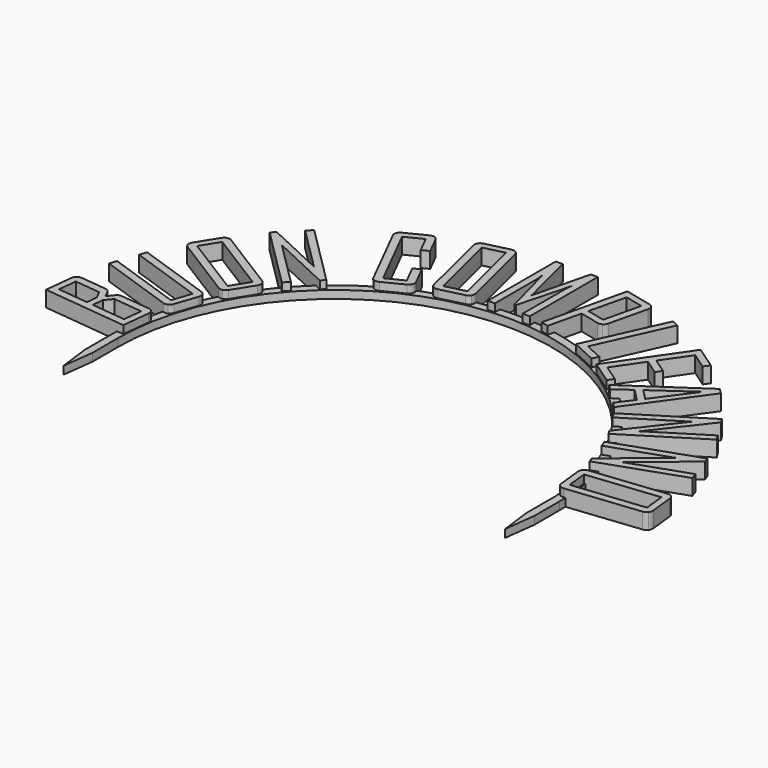
from build123d import *

# Parameters (mm, degrees)
PAD_DEPTH    = 1
PAD001_DEPTH = 2
PAD002_DEPTH = 2


with BuildPart() as part:
    # Sketch001 (on DatumPlane) → Pad (new body)
    with BuildSketch(Plane.XY):
        with BuildLine():
            ThreePointArc((27.5, 0), (0, 27.5), (-27.5, 0))
            Line((-27.5, 0), (-27.5, -4))
            Line((-27.5, -4), (-28, -8))
            Line((-28.5, -4), (-28, -8))
            Line((-28.5, 0), (-28.5, -4))
            ThreePointArc((3.69, 28.260111), (-18.802726, 21.417458), (-28.5, 0))
            ThreePointArc((4.679178, 28.113258), (4.185233, 28.191024), (3.69, 28.260111))
            ThreePointArc((28.5, 0), (21.74404, 18.42408), (4.679178, 28.113258))
            Line((28.5, 0), (28.5, -4))
            Line((28.5, -4), (28, -8))
            Line((27.5, -4), (28, -8))
            Line((27.5, 0), (27.5, -4))
        make_face()
    extrude(amount=PAD_DEPTH)

    # Sketch → Pad001 (join)
    with BuildSketch(Plane(origin=(-105.3, 177.4, 0), x_dir=(1, 0, 0), z_dir=(0, 0, 1))):
        with BuildLine():
            add(Edge.make_bspline(
                [(77.387748, -172.01955), (77.723387, -172.056064), (77.912628, -172.291513)],
                knots=[0, 0, 0, 1, 1, 1], degree=2))
            add(Edge.make_bspline(
                [(77.912628, -172.291513), (78.101868, -172.526953), (78.065352, -172.86259)],
                knots=[0, 0, 0, 1, 1, 1], degree=2))
            add(Edge.make_bspline(
                [(78.065352, -172.86259), (77.680815, -176.397073)],
                knots=[0, 0, 3.555339, 3.555339], degree=1))
            add(Edge.make_bspline(
                [(77.680815, -176.397073), (66.960931, -175.230789)],
                knots=[0, 0, 10.783141, 10.783141], degree=1))
            add(Edge.make_bspline(
                [(66.960931, -175.230789), (67.342489, -171.723711)],
                knots=[0, 0, 3.527773, 3.527773], degree=1))
            add(Edge.make_bspline(
                [(67.342489, -171.723711), (67.379006, -171.388074), (67.614448, -171.198826)],
                knots=[0, 0, 0, 1, 1, 1], degree=2))
            add(Edge.make_bspline(
                [(67.614448, -171.198826), (67.849894, -171.009587), (68.185523, -171.046062)],
                knots=[0, 0, 0, 1, 1, 1], degree=2))
            add(Edge.make_bspline(
                [(68.185523, -171.046062), (71.370664, -171.392593)],
                knots=[0, 0, 3.203936, 3.203936], degree=1))
            add(Edge.make_bspline(
                [(71.370664, -171.392593), (71.795351, -171.438803), (72.041308, -171.85369)],
                knots=[0, 0, 0, 1, 1, 1], degree=2))
            add(Edge.make_bspline(
                [(72.041308, -171.85369), (72.226361, -172.255017), (72.411416, -172.656343)],
                knots=[0, 0, 0, 1, 1, 1], degree=2))
            add(Edge.make_bspline(
                [(72.411416, -172.656343), (73.019935, -171.90471)],
                knots=[0, 0, 0.967083, 0.967083], degree=1))
            add(Edge.make_bspline(
                [(73.019935, -171.90471), (73.27788, -171.572368), (73.743665, -171.623048)],
                knots=[0, 0, 0, 1, 1, 1], degree=2))
            add(Edge.make_bspline(
                [(73.743665, -171.623048), (77.387748, -172.01955)],
                knots=[0, 0, 3.665591, 3.665591], degree=1))
        make_face()
        with BuildLine():
            add(Edge.make_bspline(
                [(71.389636, -172.365017), (68.163397, -172.014017)],
                knots=[0, 0, 3.245277, 3.245277], degree=1))
            add(Edge.make_bspline(
                [(68.163397, -172.014017), (67.907037, -174.370332)],
                knots=[0, 0, 2.37022, 2.37022], degree=1))
            add(Edge.make_bspline(
                [(67.907037, -174.370332), (71.777155, -174.791387)],
                knots=[0, 0, 3.892955, 3.892955], degree=1))
            add(Edge.make_bspline(
                [(71.777155, -174.791387), (71.929926, -173.387183)],
                knots=[0, 0, 1.41249, 1.41249], degree=1))
            add(Edge.make_bspline(
                [(71.929926, -173.387183), (71.389636, -172.365017)],
                knots=[0, 0, 1.156173, 1.156173], degree=1))
        make_face(mode=Mode.SUBTRACT)
        with BuildLine():
            add(Edge.make_bspline(
                [(77.201218, -172.969569), (73.495495, -172.566401)],
                knots=[0, 0, 3.72759, 3.72759], degree=1))
            add(Edge.make_bspline(
                [(73.495495, -172.566401), (72.760239, -173.463657)],
                knots=[0, 0, 1.16003, 1.16003], degree=1))
            add(Edge.make_bspline(
                [(72.760239, -173.463657), (72.605978, -174.881564)],
                knots=[0, 0, 1.426273, 1.426273], degree=1))
            add(Edge.make_bspline(
                [(72.605978, -174.881564), (76.941879, -175.353289)],
                knots=[0, 0, 4.361486, 4.361486], degree=1))
            add(Edge.make_bspline(
                [(76.941879, -175.353289), (77.201218, -172.969569)],
                knots=[0, 0, 2.397786, 2.397786], degree=1))
        make_face(mode=Mode.SUBTRACT)
        with BuildLine():
            add(Edge.make_bspline(
                [(79.237839, -165.974517), (79.557148, -166.08418), (79.687541, -166.3621)],
                knots=[0, 0, 0, 1, 1, 1], degree=2))
            add(Edge.make_bspline(
                [(79.687541, -166.3621), (79.820167, -166.633493), (79.7105, -166.952798)],
                knots=[0, 0, 0, 1, 1, 1], degree=2))
            add(Edge.make_bspline(
                [(79.7105, -166.952798), (78.757047, -169.728848)],
                knots=[0, 0, 2.935221, 2.935221], degree=1))
            add(Edge.make_bspline(
                [(78.757047, -169.728848), (78.647379, -170.048164), (78.375982, -170.18079)],
                knots=[0, 0, 0, 1, 1, 1], degree=2))
            add(Edge.make_bspline(
                [(78.375982, -170.18079), (78.104591, -170.313436), (77.785277, -170.203754)],
                knots=[0, 0, 0, 1, 1, 1], degree=2))
            add(Edge.make_bspline(
                [(77.785277, -170.203754), (68.310222, -166.949471)],
                knots=[0, 0, 10.018335, 10.018335], degree=1))
            add(Edge.make_bspline(
                [(68.310222, -166.949471), (68.621327, -166.043676)],
                knots=[0, 0, 0.957732, 0.957732], degree=1))
            add(Edge.make_bspline(
                [(68.621327, -166.043676), (78.018181, -169.271096)],
                knots=[0, 0, 9.935649, 9.935649], degree=1))
            add(Edge.make_bspline(
                [(78.018181, -169.271096), (78.848537, -166.853459)],
                knots=[0, 0, 2.556259, 2.556259], degree=1))
            add(Edge.make_bspline(
                [(78.848537, -166.853459), (69.451681, -163.626039)],
                knots=[0, 0, 9.93565, 9.93565], degree=1))
            add(Edge.make_bspline(
                [(69.451681, -163.626039), (69.762785, -162.720244)],
                knots=[0, 0, 0.957732, 0.957732], degree=1))
            add(Edge.make_bspline(
                [(69.762785, -162.720244), (79.237839, -165.974517)],
                knots=[0, 0, 10.01833, 10.01833], degree=1))
        make_face()
        with BuildLine():
            add(Edge.make_bspline(
                [(82.470727, -160.384472), (82.75705, -160.563383), (82.821355, -160.863547)],
                knots=[0, 0, 0, 1, 1, 1], degree=2))
            add(Edge.make_bspline(
                [(82.821355, -160.863547), (82.889313, -161.157875), (82.710408, -161.444196)],
                knots=[0, 0, 0, 1, 1, 1], degree=2))
            add(Edge.make_bspline(
                [(82.710408, -161.444196), (81.111221, -164.003555)],
                knots=[0, 0, 3.0179, 3.0179], degree=1))
            add(Edge.make_bspline(
                [(81.111221, -164.003555), (80.932317, -164.289876), (80.637992, -164.357838)],
                knots=[0, 0, 0, 1, 1, 1], degree=2))
            add(Edge.make_bspline(
                [(80.637992, -164.357838), (80.343664, -164.425791), (80.057344, -164.24689)],
                knots=[0, 0, 0, 1, 1, 1], degree=2))
            add(Edge.make_bspline(
                [(80.057344, -164.24689), (72.209806, -159.343453)],
                knots=[0, 0, 9.253515, 9.253515], degree=1))
            add(Edge.make_bspline(
                [(72.209806, -159.343453), (71.923482, -159.164542), (71.855525, -158.870214)],
                knots=[0, 0, 0, 1, 1, 1], degree=2))
            add(Edge.make_bspline(
                [(71.855525, -158.870214), (71.787569, -158.575896), (71.966472, -158.289565)],
                knots=[0, 0, 0, 1, 1, 1], degree=2))
            add(Edge.make_bspline(
                [(71.966472, -158.289565), (73.565659, -155.730206)],
                knots=[0, 0, 3.0179, 3.0179], degree=1))
            add(Edge.make_bspline(
                [(73.565659, -155.730206), (73.744563, -155.443885), (74.03889, -155.375932)],
                knots=[0, 0, 0, 1, 1, 1], degree=2))
            add(Edge.make_bspline(
                [(74.03889, -155.375932), (74.336829, -155.301958), (74.623189, -155.481035)],
                knots=[0, 0, 0, 1, 1, 1], degree=2))
            add(Edge.make_bspline(
                [(74.623189, -155.481035), (82.470727, -160.384472)],
                knots=[0, 0, 9.253515, 9.253515], degree=1))
        make_face()
        with BuildLine():
            add(Edge.make_bspline(
                [(81.893103, -161.152876), (74.185805, -156.337068)],
                knots=[0, 0, 9.088149, 9.088149], degree=1))
            add(Edge.make_bspline(
                [(74.185805, -156.337068), (72.787429, -158.575049)],
                knots=[0, 0, 2.638942, 2.638942], degree=1))
            add(Edge.make_bspline(
                [(72.787429, -158.575049), (80.494728, -163.390857)],
                knots=[0, 0, 9.088149, 9.088149], degree=1))
            add(Edge.make_bspline(
                [(80.494728, -163.390857), (81.893103, -161.152876)],
                knots=[0, 0, 2.638942, 2.638942], degree=1))
        make_face(mode=Mode.SUBTRACT)
        with BuildLine():
            add(Edge.make_bspline(
                [(87.343567, -156.285932), (86.876556, -156.754362)],
                knots=[0, 0, 0.661457, 0.661457], degree=1))
            add(Edge.make_bspline(
                [(86.876556, -156.754362), (79.226815, -153.194742)],
                knots=[0, 0, 8.437383, 8.437383], degree=1))
            add(Edge.make_bspline(
                [(79.226815, -153.194742), (84.843119, -158.793992)],
                knots=[0, 0, 7.930603, 7.930603], degree=1))
            add(Edge.make_bspline(
                [(84.843119, -158.793992), (84.205847, -159.433213)],
                knots=[0, 0, 0.902618, 0.902618], degree=1))
            add(Edge.make_bspline(
                [(84.205847, -159.433213), (76.569429, -151.819985)],
                knots=[0, 0, 10.78314, 10.78314], degree=1))
            add(Edge.make_bspline(
                [(76.569429, -151.819985), (77.075356, -151.312513)],
                knots=[0, 0, 0.716582, 0.716582], degree=1))
            add(Edge.make_bspline(
                [(77.075356, -151.312513), (84.588592, -154.813878)],
                knots=[0, 0, 8.289045, 8.289045], degree=1))
            add(Edge.make_bspline(
                [(84.588592, -154.813878), (79.069875, -149.311915)],
                knots=[0, 0, 7.792806, 7.792806], degree=1))
            add(Edge.make_bspline(
                [(79.069875, -149.311915), (79.707149, -148.672704)],
                knots=[0, 0, 0.902613, 0.902613], degree=1))
            add(Edge.make_bspline(
                [(79.707149, -148.672704), (87.343567, -156.285932)],
                knots=[0, 0, 10.78314, 10.78314], degree=1))
        make_face()
    extrude(amount=PAD001_DEPTH)

    # Sketch002 → Pad002 (join)
    with BuildSketch(Plane(origin=(-105.3, 177.4, 0), x_dir=(1, 0, 0), z_dir=(0, 0, 1))):
        with BuildLine():
            add(Edge.make_bspline(
                [(94.514047, -151.029576), (94.665775, -151.331182), (94.5648, -151.621075)],
                knots=[0, 0, 0, 1, 1, 1], degree=2))
            add(Edge.make_bspline(
                [(94.5648, -151.621075), (94.463825, -151.910968), (94.162217, -152.062686)],
                knots=[0, 0, 0, 1, 1, 1], degree=2))
            add(Edge.make_bspline(
                [(94.162217, -152.062686), (91.681637, -153.310512)],
                knots=[0, 0, 2.776751, 2.776751], degree=1))
            add(Edge.make_bspline(
                [(91.681637, -153.310512), (91.38003, -153.46224), (91.093234, -153.367431)],
                knots=[0, 0, 0, 1, 1, 1], degree=2))
            add(Edge.make_bspline(
                [(91.093234, -153.367431), (90.806435, -153.272603), (90.654716, -152.970995)],
                knots=[0, 0, 0, 1, 1, 1], degree=2))
            add(Edge.make_bspline(
                [(90.654716, -152.970995), (86.496353, -144.704455)],
                knots=[0, 0, 9.253522, 9.253522], degree=1))
            add(Edge.make_bspline(
                [(86.496353, -144.704455), (86.344634, -144.402846), (86.439462, -144.116045)],
                knots=[0, 0, 0, 1, 1, 1], degree=2))
            add(Edge.make_bspline(
                [(86.439462, -144.116045), (86.534289, -143.829244), (86.835898, -143.677525)],
                knots=[0, 0, 0, 1, 1, 1], degree=2))
            add(Edge.make_bspline(
                [(86.835898, -143.677525), (89.316476, -142.42971)],
                knots=[0, 0, 2.776744, 2.776744], degree=1))
            add(Edge.make_bspline(
                [(89.316476, -142.42971), (89.618083, -142.277982), (89.911045, -142.369746)],
                knots=[0, 0, 0, 1, 1, 1], degree=2))
            add(Edge.make_bspline(
                [(89.911045, -142.369746), (90.204001, -142.461481), (90.355721, -142.763089)],
                knots=[0, 0, 0, 1, 1, 1], degree=2))
            add(Edge.make_bspline(
                [(90.355721, -142.763089), (91.482781, -145.003606)],
                knots=[0, 0, 2.508024, 2.508024], degree=1))
            add(Edge.make_bspline(
                [(91.482781, -145.003606), (90.621043, -145.437097)],
                knots=[0, 0, 0.964627, 0.964627], degree=1))
            add(Edge.make_bspline(
                [(90.621043, -145.437097), (89.531137, -143.270435)],
                knots=[0, 0, 2.42535, 2.42535], degree=1))
            add(Edge.make_bspline(
                [(89.531137, -143.270435), (87.389102, -144.347961)],
                knots=[0, 0, 2.397785, 2.397785], degree=1))
            add(Edge.make_bspline(
                [(87.389102, -144.347961), (91.473151, -152.466771)],
                knots=[0, 0, 9.088153, 9.088153], degree=1))
            add(Edge.make_bspline(
                [(91.473151, -152.466771), (93.615187, -151.389245)],
                knots=[0, 0, 2.397786, 2.397786], degree=1))
            add(Edge.make_bspline(
                [(93.615187, -151.389245), (92.423103, -149.019465)],
                knots=[0, 0, 2.652719, 2.652719], degree=1))
            add(Edge.make_bspline(
                [(92.423103, -149.019465), (93.284842, -148.585984)],
                knots=[0, 0, 0.964625, 0.964625], degree=1))
            add(Edge.make_bspline(
                [(93.284842, -148.585984), (94.514047, -151.029576)],
                knots=[0, 0, 2.73534, 2.73534], degree=1))
        make_face()
        with BuildLine():
            add(Edge.make_bspline(
                [(100.677936, -149.284913), (100.758712, -149.612731), (100.595728, -149.872875)],
                knots=[0, 0, 0, 1, 1, 1], degree=2))
            add(Edge.make_bspline(
                [(100.595728, -149.872875), (100.439444, -150.131371), (100.111626, -150.212147)],
                knots=[0, 0, 0, 1, 1, 1], degree=2))
            add(Edge.make_bspline(
                [(100.111626, -150.212147), (97.181358, -150.934148)],
                knots=[0, 0, 3.017906, 3.017906], degree=1))
            add(Edge.make_bspline(
                [(97.181358, -150.934148), (96.85355, -151.014922), (96.595054, -150.858639)],
                knots=[0, 0, 0, 1, 1, 1], degree=2))
            add(Edge.make_bspline(
                [(96.595054, -150.858639), (96.336556, -150.702346), (96.255782, -150.374537)],
                knots=[0, 0, 0, 1, 1, 1], degree=2))
            add(Edge.make_bspline(
                [(96.255782, -150.374537), (94.041869, -141.389758)],
                knots=[0, 0, 9.253522, 9.253522], degree=1))
            add(Edge.make_bspline(
                [(94.041869, -141.389758), (93.961093, -141.06194), (94.117386, -140.803442)],
                knots=[0, 0, 0, 1, 1, 1], degree=2))
            add(Edge.make_bspline(
                [(94.117386, -140.803442), (94.273672, -140.544956), (94.601488, -140.46417)],
                knots=[0, 0, 0, 1, 1, 1], degree=2))
            add(Edge.make_bspline(
                [(94.601488, -140.46417), (97.531746, -139.742171)],
                knots=[0, 0, 3.017896, 3.017896], degree=1))
            add(Edge.make_bspline(
                [(97.531746, -139.742171), (97.859564, -139.661395), (98.11806, -139.817678)],
                knots=[0, 0, 0, 1, 1, 1], degree=2))
            add(Edge.make_bspline(
                [(98.11806, -139.817678), (98.38325, -139.972325), (98.464024, -140.300134)],
                knots=[0, 0, 0, 1, 1, 1], degree=2))
            add(Edge.make_bspline(
                [(98.464024, -140.300134), (100.677936, -149.284913)],
                knots=[0, 0, 9.253522, 9.253522], degree=1))
        make_face()
        with BuildLine():
            add(Edge.make_bspline(
                [(99.728238, -149.433819), (97.553891, -140.609603)],
                knots=[0, 0, 9.088155, 9.088155], degree=1))
            add(Edge.make_bspline(
                [(97.553891, -140.609603), (94.991594, -141.24097)],
                knots=[0, 0, 2.638937, 2.638937], degree=1))
            add(Edge.make_bspline(
                [(94.991594, -141.24097), (97.165939, -150.065176)],
                knots=[0, 0, 9.088145, 9.088145], degree=1))
            add(Edge.make_bspline(
                [(97.165939, -150.065176), (99.728238, -149.433819)],
                knots=[0, 0, 2.638937, 2.638937], degree=1))
        make_face(mode=Mode.SUBTRACT)
        with BuildLine():
            add(Edge.make_bspline(
                [(107.91885, -149.775461), (107.016238, -149.77538)],
                knots=[0, 0, 0.902612, 0.902612], degree=1))
            add(Edge.make_bspline(
                [(107.016238, -149.77538), (107.016865, -142.947202)],
                knots=[0, 0, 6.828177, 6.828177], degree=1))
            add(Edge.make_bspline(
                [(107.016865, -142.947202), (107.016851, -142.802516), (107.113408, -142.099715)],
                knots=[0, 0, 0, 1, 1, 1], degree=2))
            add(Edge.make_bspline(
                [(107.113408, -142.099715), (105.348904, -148.762367)],
                knots=[0, 0, 6.892344, 6.892344], degree=1))
            add(Edge.make_bspline(
                [(105.348904, -148.762367), (105.155986, -148.762387)],
                knots=[0, 0, 0.192918, 0.192918], degree=1))
            add(Edge.make_bspline(
                [(105.155986, -148.762387), (103.392715, -142.099419)],
                knots=[0, 0, 6.892334, 6.892334], degree=1))
            add(Edge.make_bspline(
                [(103.392715, -142.099419), (103.489141, -142.809109), (103.489126, -142.946909)],
                knots=[0, 0, 0, 1, 1, 1], degree=2))
            add(Edge.make_bspline(
                [(103.489126, -142.946909), (103.488499, -149.775087)],
                knots=[0, 0, 6.828177, 6.828177], degree=1))
            add(Edge.make_bspline(
                [(103.488499, -149.775087), (102.585886, -149.775005)],
                knots=[0, 0, 0.902612, 0.902612], degree=1))
            add(Edge.make_bspline(
                [(102.585886, -149.775005), (102.586872, -138.991858)],
                knots=[0, 0, 10.783147, 10.783147], degree=1))
            add(Edge.make_bspline(
                [(102.586872, -138.991858), (103.475712, -138.991946)],
                knots=[0, 0, 0.88884, 0.88884], degree=1))
            add(Edge.make_bspline(
                [(103.475712, -138.991946), (105.225174, -146.006314)],
                knots=[0, 0, 7.229244, 7.229244], degree=1))
            add(Edge.make_bspline(
                [(105.225174, -146.006314), (105.238756, -146.061476), (105.252682, -146.316383)],
                knots=[0, 0, 0, 1, 1, 1], degree=2))
            add(Edge.make_bspline(
                [(105.252682, -146.316383), (105.252739, -146.213012), (105.280251, -146.00633)],
                knots=[0, 0, 0, 1, 1, 1], degree=2))
            add(Edge.make_bspline(
                [(105.280251, -146.00633), (107.031006, -138.992274)],
                knots=[0, 0, 7.229255, 7.229255], degree=1))
            add(Edge.make_bspline(
                [(107.031006, -138.992274), (107.919836, -138.992365)],
                knots=[0, 0, 0.888831, 0.888831], degree=1))
            add(Edge.make_bspline(
                [(107.919836, -138.992365), (107.91885, -149.775461)],
                knots=[0, 0, 10.783096, 10.783096], degree=1))
        make_face()
        with BuildLine():
            add(Edge.make_bspline(
                [(114.961055, -146.118429), (114.883167, -146.446941), (114.617753, -146.610604)],
                knots=[0, 0, 0, 1, 1, 1], degree=2))
            add(Edge.make_bspline(
                [(114.617753, -146.610604), (114.360635, -146.769127), (114.032136, -146.691298)],
                knots=[0, 0, 0, 1, 1, 1], degree=2))
            add(Edge.make_bspline(
                [(114.032136, -146.691298), (111.55825, -146.104701)],
                knots=[0, 0, 2.542481, 2.542481], degree=1))
            add(Edge.make_bspline(
                [(111.55825, -146.104701), (110.571063, -150.268072)],
                knots=[0, 0, 4.278808, 4.278808], degree=1))
            add(Edge.make_bspline(
                [(110.571063, -150.268072), (109.639165, -150.047112)],
                knots=[0, 0, 0.957736, 0.957736], degree=1))
            add(Edge.make_bspline(
                [(109.639165, -150.047112), (112.127013, -139.554886)],
                knots=[0, 0, 10.783144, 10.783144], degree=1))
            add(Edge.make_bspline(
                [(112.127013, -139.554886), (115.532788, -140.362445)],
                knots=[0, 0, 3.500208, 3.500208], degree=1))
            add(Edge.make_bspline(
                [(115.532788, -140.362445), (115.8613, -140.440333), (116.019852, -140.697444)],
                knots=[0, 0, 0, 1, 1, 1], degree=2))
            add(Edge.make_bspline(
                [(116.019852, -140.697444), (116.185115, -140.956146), (116.107169, -141.284671)],
                knots=[0, 0, 0, 1, 1, 1], degree=2))
            add(Edge.make_bspline(
                [(116.107169, -141.284671), (114.961055, -146.118429)],
                knots=[0, 0, 4.967775, 4.967775], degree=1))
        make_face()
        with BuildLine():
            add(Edge.make_bspline(
                [(114.048235, -145.817017), (115.156243, -141.14412)],
                knots=[0, 0, 4.802463, 4.802463], degree=1))
            add(Edge.make_bspline(
                [(115.156243, -141.14412), (112.863369, -140.600447)],
                knots=[0, 0, 2.356449, 2.356449], degree=1))
            add(Edge.make_bspline(
                [(112.863369, -140.600447), (111.755362, -145.273344)],
                knots=[0, 0, 4.802463, 4.802463], degree=1))
            add(Edge.make_bspline(
                [(111.755362, -145.273344), (114.048235, -145.817017)],
                knots=[0, 0, 2.356449, 2.356449], degree=1))
        make_face(mode=Mode.SUBTRACT)
        with BuildLine():
            add(Edge.make_bspline(
                [(118.353919, -153.014759), (115.216397, -151.59186)],
                knots=[0, 0, 3.445096, 3.445096], degree=1))
            add(Edge.make_bspline(
                [(115.216397, -151.59186), (119.670058, -141.771426)],
                knots=[0, 0, 10.783136, 10.783136], degree=1))
            add(Edge.make_bspline(
                [(119.670058, -141.771426), (120.542281, -142.166987)],
                knots=[0, 0, 0.957728, 0.957728], degree=1))
            add(Edge.make_bspline(
                [(120.542281, -142.166987), (116.43866, -151.215596)],
                knots=[0, 0, 9.935644, 9.935644], degree=1))
            add(Edge.make_bspline(
                [(116.43866, -151.215596), (118.703947, -152.242926)],
                knots=[0, 0, 2.487354, 2.487354], degree=1))
            add(Edge.make_bspline(
                [(118.703947, -152.242926), (118.353919, -153.014759)],
                knots=[0, 0, 0.847494, 0.847494], degree=1))
        make_face()
        with BuildLine():
            add(Edge.make_bspline(
                [(122.402732, -155.696644), (119.487875, -153.685121)],
                knots=[0, 0, 3.541556, 3.541556], degree=1))
            add(Edge.make_bspline(
                [(119.487875, -153.685121), (125.612425, -144.810104)],
                knots=[0, 0, 10.783137, 10.783137], degree=1))
            add(Edge.make_bspline(
                [(125.612425, -144.810104), (128.493261, -146.798143)],
                knots=[0, 0, 3.500216, 3.500216], degree=1))
            add(Edge.make_bspline(
                [(128.493261, -146.798143), (128.011915, -147.495669)],
                knots=[0, 0, 0.847489, 0.847489], degree=1))
            add(Edge.make_bspline(
                [(128.011915, -147.495669), (125.919339, -146.0516)],
                knots=[0, 0, 2.542481, 2.542481], degree=1))
            add(Edge.make_bspline(
                [(125.919339, -146.0516), (123.633874, -149.363432)],
                knots=[0, 0, 4.023876, 4.023876], degree=1))
            add(Edge.make_bspline(
                [(123.633874, -149.363432), (125.539318, -150.678355)],
                knots=[0, 0, 2.315111, 2.315111], degree=1))
            add(Edge.make_bspline(
                [(125.539318, -150.678355), (125.050132, -151.387215)],
                knots=[0, 0, 0.861269, 0.861269], degree=1))
            add(Edge.make_bspline(
                [(125.050132, -151.387215), (123.1447, -150.072299)],
                knots=[0, 0, 2.315097, 2.315097], degree=1))
            add(Edge.make_bspline(
                [(123.1447, -150.072299), (120.757493, -153.531571)],
                knots=[0, 0, 4.203014, 4.203014], degree=1))
            add(Edge.make_bspline(
                [(120.757493, -153.531571), (122.884088, -154.999115)],
                knots=[0, 0, 2.583814, 2.583814], degree=1))
            add(Edge.make_bspline(
                [(122.884088, -154.999115), (122.402732, -155.696644)],
                knots=[0, 0, 0.847496, 0.847496], degree=1))
        make_face()
        with BuildLine():
            add(Edge.make_bspline(
                [(126.594915, -159.772375), (125.930624, -159.092059)],
                knots=[0, 0, 0.950848, 0.950848], degree=1))
            add(Edge.make_bspline(
                [(125.930624, -159.092059), (127.381447, -157.145752)],
                knots=[0, 0, 2.42755, 2.42755], degree=1))
            add(Edge.make_bspline(
                [(127.381447, -157.145752), (125.884389, -155.612581)],
                knots=[0, 0, 2.142848, 2.142848], degree=1))
            add(Edge.make_bspline(
                [(125.884389, -155.612581), (123.904056, -157.01661)],
                knots=[0, 0, 2.427554, 2.427554], degree=1))
            add(Edge.make_bspline(
                [(123.904056, -157.01661), (123.259022, -156.356012)],
                knots=[0, 0, 0.923287, 0.923287], degree=1))
            add(Edge.make_bspline(
                [(123.259022, -156.356012), (123.27874, -156.336755)],
                knots=[0, 0, 0.027561, 0.027561], degree=1))
            add(Edge.make_bspline(
                [(123.27874, -156.336755), (132.336909, -150.178734)],
                knots=[0, 0, 10.953157, 10.953157], degree=1))
            add(Edge.make_bspline(
                [(132.336909, -150.178734), (132.996384, -150.854115)],
                knots=[0, 0, 0.943953, 0.943953], degree=1))
            add(Edge.make_bspline(
                [(132.996384, -150.854115), (126.594915, -159.772375)],
                knots=[0, 0, 10.977894, 10.977894], degree=1))
        make_face()
        with BuildLine():
            add(Edge.make_bspline(
                [(127.901169, -156.464934), (131.422168, -151.70753)],
                knots=[0, 0, 5.918643, 5.918643], degree=1))
            add(Edge.make_bspline(
                [(131.422168, -151.70753), (126.577404, -155.109237)],
                knots=[0, 0, 5.919742, 5.919742], degree=1))
            add(Edge.make_bspline(
                [(126.577404, -155.109237), (127.901169, -156.464934)],
                knots=[0, 0, 1.894801, 1.894801], degree=1))
        make_face(mode=Mode.SUBTRACT)
        with BuildLine():
            add(Edge.make_bspline(
                [(129.750983, -164.579153), (129.39988, -164.018569)],
                knots=[0, 0, 0.661458, 0.661458], degree=1))
            add(Edge.make_bspline(
                [(129.39988, -164.018569), (134.592202, -157.368063)],
                knots=[0, 0, 8.437383, 8.437383], degree=1))
            add(Edge.make_bspline(
                [(134.592202, -157.368063), (127.871095, -161.57772)],
                knots=[0, 0, 7.930604, 7.930604], degree=1))
            add(Edge.make_bspline(
                [(127.871095, -161.57772), (127.391977, -160.812763)],
                knots=[0, 0, 0.902615, 0.902615], degree=1))
            add(Edge.make_bspline(
                [(127.391977, -160.812763), (136.530577, -155.08895)],
                knots=[0, 0, 10.783138, 10.783138], degree=1))
            add(Edge.make_bspline(
                [(136.530577, -155.08895), (136.910948, -155.696242)],
                knots=[0, 0, 0.716579, 0.716579], degree=1))
            add(Edge.make_bspline(
                [(136.910948, -155.696242), (131.806156, -162.22689)],
                knots=[0, 0, 8.289045, 8.289045], degree=1))
            add(Edge.make_bspline(
                [(131.806156, -162.22689), (138.410475, -158.09038)],
                knots=[0, 0, 7.792801, 7.792801], degree=1))
            add(Edge.make_bspline(
                [(138.410475, -158.09038), (138.889594, -158.855337)],
                knots=[0, 0, 0.902615, 0.902615], degree=1))
            add(Edge.make_bspline(
                [(138.889594, -158.855337), (129.750983, -164.579153)],
                knots=[0, 0, 10.783147, 10.783147], degree=1))
        make_face()
        with BuildLine():
            add(Edge.make_bspline(
                [(131.962114, -170.34347), (131.745016, -169.718651)],
                knots=[0, 0, 0.661461, 0.661461], degree=1))
            add(Edge.make_bspline(
                [(131.745016, -169.718651), (138.29086, -164.394988)],
                knots=[0, 0, 8.437385, 8.437385], degree=1))
            add(Edge.make_bspline(
                [(138.29086, -164.394988), (130.799658, -166.99813)],
                knots=[0, 0, 7.930603, 7.930603], degree=1))
            add(Edge.make_bspline(
                [(130.799658, -166.99813), (130.503426, -166.145513)],
                knots=[0, 0, 0.902612, 0.902612], degree=1))
            add(Edge.make_bspline(
                [(130.503426, -166.145513), (140.689126, -162.606055)],
                knots=[0, 0, 10.783147, 10.783147], degree=1))
            add(Edge.make_bspline(
                [(140.689126, -162.606055), (140.924331, -163.282934)],
                knots=[0, 0, 0.716579, 0.716579], degree=1))
            add(Edge.make_bspline(
                [(140.924331, -163.282934), (134.490565, -168.509293)],
                knots=[0, 0, 8.289039, 8.289039], degree=1))
            add(Edge.make_bspline(
                [(134.490565, -168.509293), (141.851601, -165.95139)],
                knots=[0, 0, 7.792799, 7.792799], degree=1))
            add(Edge.make_bspline(
                [(141.851601, -165.95139), (142.147832, -166.803997)],
                knots=[0, 0, 0.902602, 0.902602], degree=1))
            add(Edge.make_bspline(
                [(142.147832, -166.803997), (131.962114, -170.34347)],
                knots=[0, 0, 10.783168, 10.783168], degree=1))
        make_face()
        with BuildLine():
            add(Edge.make_bspline(
                [(133.595475, -176.484718), (133.259799, -176.520927), (133.023805, -176.324549)],
                knots=[0, 0, 0, 1, 1, 1], degree=2))
            add(Edge.make_bspline(
                [(133.023805, -176.324549), (132.788561, -176.135067), (132.752393, -175.799391)],
                knots=[0, 0, 0, 1, 1, 1], degree=2))
            add(Edge.make_bspline(
                [(132.752393, -175.799391), (132.429101, -172.798855)],
                knots=[0, 0, 3.017903, 3.017903], degree=1))
            add(Edge.make_bspline(
                [(132.429101, -172.798855), (132.392894, -172.463188), (132.582415, -172.227935)],
                knots=[0, 0, 0, 1, 1, 1], degree=2))
            add(Edge.make_bspline(
                [(132.582415, -172.227935), (132.771905, -171.992678), (133.107581, -171.956511)],
                knots=[0, 0, 0, 1, 1, 1], degree=2))
            add(Edge.make_bspline(
                [(133.107581, -171.956511), (142.307847, -170.965236)],
                knots=[0, 0, 9.253514, 9.253514], degree=1))
            add(Edge.make_bspline(
                [(142.307847, -170.965236), (142.643513, -170.92903), (142.878777, -171.118549)],
                knots=[0, 0, 0, 1, 1, 1], degree=2))
            add(Edge.make_bspline(
                [(142.878777, -171.118549), (143.114021, -171.308031), (143.150189, -171.643706)],
                knots=[0, 0, 0, 1, 1, 1], degree=2))
            add(Edge.make_bspline(
                [(143.150189, -171.643706), (143.473481, -174.644243)],
                knots=[0, 0, 3.017903, 3.017903], degree=1))
            add(Edge.make_bspline(
                [(143.473481, -174.644243), (143.509688, -174.97991), (143.320169, -175.215173)],
                knots=[0, 0, 0, 1, 1, 1], degree=2))
            add(Edge.make_bspline(
                [(143.320169, -175.215173), (143.131415, -175.457267), (142.795739, -175.493434)],
                knots=[0, 0, 0, 1, 1, 1], degree=2))
            add(Edge.make_bspline(
                [(142.795739, -175.493434), (133.595475, -176.484718)],
                knots=[0, 0, 9.253513, 9.253513], degree=1))
        make_face()
        with BuildLine():
            add(Edge.make_bspline(
                [(133.57508, -175.523643), (142.610934, -174.550072)],
                knots=[0, 0, 9.088152, 9.088152], degree=1))
            add(Edge.make_bspline(
                [(142.610934, -174.550072), (142.328243, -171.926312)],
                knots=[0, 0, 2.638945, 2.638945], degree=1))
            add(Edge.make_bspline(
                [(142.328243, -171.926312), (133.292388, -172.899882)],
                knots=[0, 0, 9.088152, 9.088152], degree=1))
            add(Edge.make_bspline(
                [(133.292388, -172.899882), (133.57508, -175.523643)],
                knots=[0, 0, 2.638945, 2.638945], degree=1))
        make_face(mode=Mode.SUBTRACT)
    extrude(amount=PAD002_DEPTH)


solid = part.part
